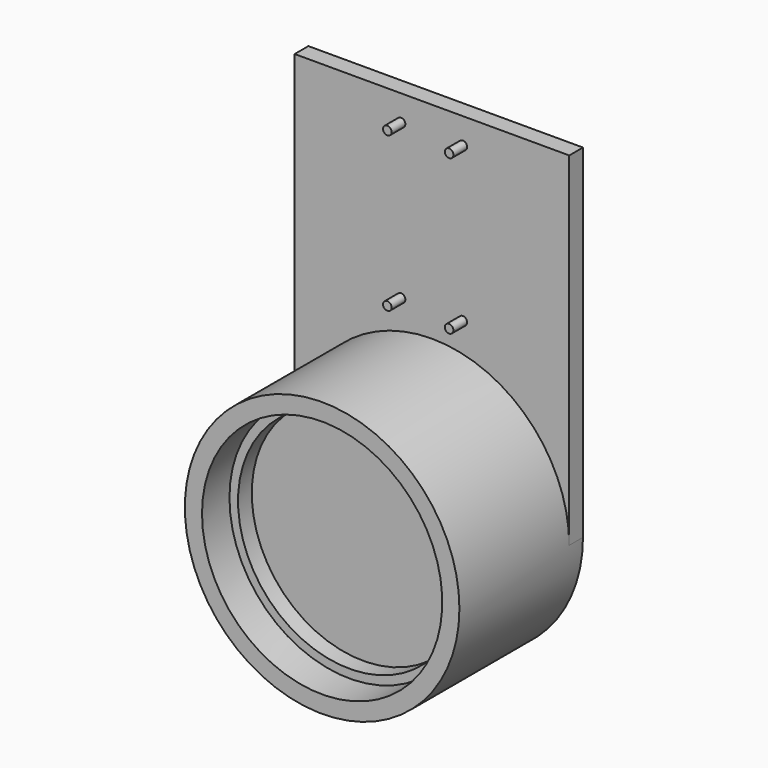
from build123d import *

# Parameters (mm, degrees)
F0_R     = 1.25
F1_DEPTH = 5
F2_DEPTH = 45
F3_DEPTH = 35
F4_DEPTH = 30
F5_DEPTH = 10


with BuildPart() as f1:
    # F0 (on Front) → F1 (new body)
    with BuildSketch(Plane.XZ):
        with BuildLine():
            Line((0.7988151149, 94.5963411382), (-79.2011848851, 94.5963411382))
            Line((-79.2011848851, 94.5963411382), (-79.2011848851, -5.4036588618))
            ThreePointArc((-79.2011848851, -5.4036588618), (-39.2011848851, 34.5963411382), (0.7988151149, -5.4036588618))
            Line((0.7988151149, -5.4036588618), (0.7988151149, 94.5963411382))
        make_face()
        with Locations((-48.2011848851, 42.0963411382)):
            Circle(F0_R, mode=Mode.SUBTRACT)
        with Locations((-48.2011848851, 87.0963411382)):
            Circle(F0_R, mode=Mode.SUBTRACT)
        with Locations((-30.2011848851, 42.0963411382)):
            Circle(F0_R, mode=Mode.SUBTRACT)
        with Locations((-30.2011848851, 87.0963411382)):
            Circle(F0_R, mode=Mode.SUBTRACT)
    extrude(amount=F1_DEPTH)

    # F0 (on Front) → F2 (join)
    with BuildSketch(Plane.XZ):
        with BuildLine():
            Line((-74.2011848851, -5.4036588618), (-79.2011848851, -5.4036588618))
            ThreePointArc((-79.2011848851, -5.4036588618), (-39.2011848851, -45.4036588618), (0.7988151149, -5.4036588618))
            Line((0.7988151149, -5.4036588618), (-4.2011848851, -5.4036588618))
            ThreePointArc((-4.2011848851, -5.4036588618), (-39.2011848851, -40.4036588618), (-74.2011848851, -5.4036588618))
        make_face()
        with BuildLine():
            ThreePointArc((0.7988151149, -5.4036588618), (-39.2011848851, 34.5963411382), (-79.2011848851, -5.4036588618))
            Line((-79.2011848851, -5.4036588618), (-74.2011848851, -5.4036588618))
            ThreePointArc((-74.2011848851, -5.4036588618), (-39.2011848851, 29.5963411382), (-4.2011848851, -5.4036588618))
            Line((-4.2011848851, -5.4036588618), (0.7988151149, -5.4036588618))
        make_face()
    extrude(amount=F2_DEPTH)

    # F0 (on Front) → F3 (join)
    with BuildSketch(Plane.XZ):
        with BuildLine():
            ThreePointArc((-4.2011848851, -5.4036588618), (-39.2011848851, 29.5963411382), (-74.2011848851, -5.4036588618))
            Line((-74.2011848851, -5.4036588618), (-71.7011848851, -5.4036588618))
            ThreePointArc((-71.7011848851, -5.4036588618), (-39.2011848851, 27.0963411382), (-6.7011848851, -5.4036588618))
            Line((-6.7011848851, -5.4036588618), (-4.2011848851, -5.4036588618))
        make_face()
        with BuildLine():
            Line((-71.7011848851, -5.4036588618), (-74.2011848851, -5.4036588618))
            ThreePointArc((-74.2011848851, -5.4036588618), (-39.2011848851, -40.4036588618), (-4.2011848851, -5.4036588618))
            Line((-4.2011848851, -5.4036588618), (-6.7011848851, -5.4036588618))
            ThreePointArc((-6.7011848851, -5.4036588618), (-39.2011848851, -37.9036588618), (-71.7011848851, -5.4036588618))
        make_face()
    extrude(amount=F3_DEPTH)

    # F0 (on Front) → F4 (join)
    with BuildSketch(Plane.XZ):
        with BuildLine():
            ThreePointArc((-6.7011848851, -5.4036588618), (-39.2011848851, 27.0963411382), (-71.7011848851, -5.4036588618))
            Line((-71.7011848851, -5.4036588618), (-6.7011848851, -5.4036588618))
        make_face()
        with BuildLine():
            Line((-6.7011848851, -5.4036588618), (-71.7011848851, -5.4036588618))
            ThreePointArc((-71.7011848851, -5.4036588618), (-39.2011848851, -37.9036588618), (-6.7011848851, -5.4036588618))
        make_face()
    extrude(amount=F4_DEPTH)

    # F0 (on Front) → F5 (join)
    with BuildSketch(Plane.XZ):
        with Locations((-30.2011848851, 42.0963411382)):
            Circle(F0_R)
        with Locations((-48.2011848851, 42.0963411382)):
            Circle(F0_R)
        with Locations((-48.2011848851, 87.0963411382)):
            Circle(F0_R)
        with Locations((-30.2011848851, 87.0963411382)):
            Circle(F0_R)
    extrude(amount=F5_DEPTH)


solid = f1.part
